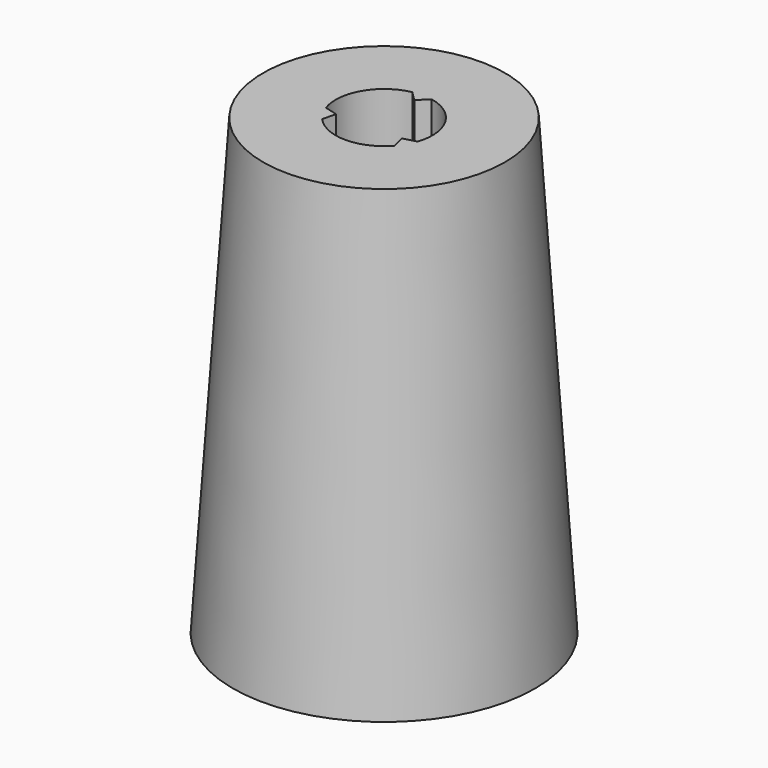
from build123d import *

# Parameters (mm, degrees)
F2_R     = 1.6
F3_DEPTH = 15
F5_DEPTH = 15


with BuildPart() as f1:
    # F0 (on Front) → F1 (revolve)
    with BuildSketch(Plane.XZ):
        Polygon((0, 15), (0, 0), (5, 0), (4, 15), align=None)
    revolve(axis=Axis((0, 0, 7.5), (0, 0, -1)))

    # F2 (on face) → F3 (cut, through all)
    with BuildSketch(Plane.XY.offset(15)):
        Circle(F2_R)
    extrude(amount=-F3_DEPTH, mode=Mode.SUBTRACT)

    # F4 (on face) → F5 (join, through all)
    with BuildSketch(Plane.XY.offset(15)):
        with BuildLine():
            ThreePointArc((0.3180668057, 1.5680668057), (0, 1.6), (-0.3180668057, 1.5680668057))
            Line((-0.3180668057, 1.5680668057), (0, 1.25))
            Line((0, 1.25), (0.3180668057, 1.5680668057))
        make_face()
        with BuildLine():
            ThreePointArc((1.1989522857, -1.0594873367), (1.3856406461, -0.8), (1.5170190914, -0.508579469))
            Line((1.5170190914, -0.508579469), (1.0825317547, -0.625))
            Line((1.0825317547, -0.625), (1.1989522857, -1.0594873367))
        make_face()
        with BuildLine():
            Line((-1.0825317547, -0.625), (-1.5170190914, -0.508579469))
            ThreePointArc((-1.5170190914, -0.508579469), (-1.3856406461, -0.8), (-1.1989522857, -1.0594873367))
            Line((-1.1989522857, -1.0594873367), (-1.0825317547, -0.625))
        make_face()
    extrude(amount=-F5_DEPTH)


solid = f1.part
